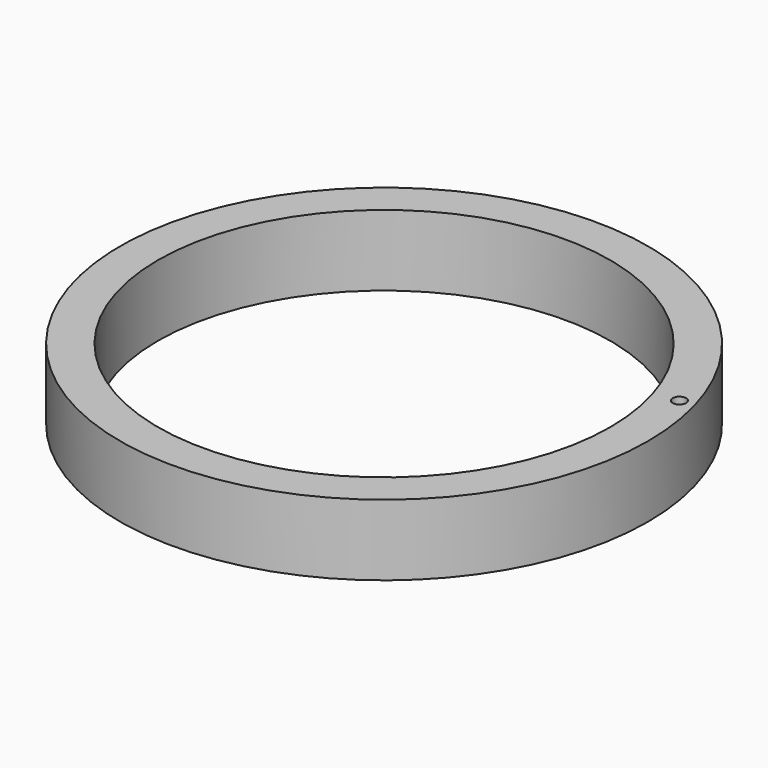
from build123d import *

# Parameters (mm, degrees)
F0_R     = 47.2105080962
F0_R_2   = 40.4501471724
F1_DEPTH = 25.4
F2_DEPTH = 12.7
F4_D     = 2.4


with BuildPart() as f1:
    # F0 (on Top) → F1 (new body)
    with BuildSketch(Plane.XY):
        Circle(F0_R)
        Circle(F0_R_2, mode=Mode.SUBTRACT)
    extrude(amount=F1_DEPTH)

    # F2 (cut): a face of the model
    f2_faces = [f1.faces().sort_by_distance(p)[0] for p in [
        (-45.8751932795, 0, 25.4),
    ]]
    extrude(f2_faces, amount=-F2_DEPTH, mode=Mode.SUBTRACT)

    # F4 (through all)
    with Locations(Plane.XY.offset(12.7)):
        with Locations((42.9688580334, 12.3208649457)):
            Hole(F4_D / 2)


solid = f1.part
